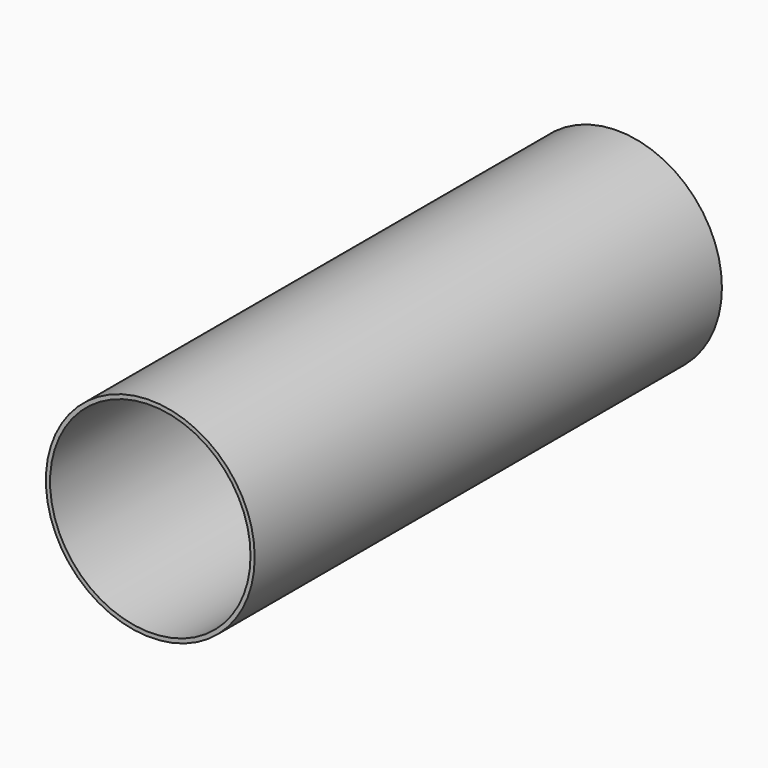
from build123d import *

# Parameters (mm, degrees)
F0_R     = 63.576496
F1_DEPTH = 355.6
F2_T     = -2.54


with BuildPart() as f1:
    # F0 (on Front) → F1 (new body)
    with BuildSketch(Plane.XZ):
        Circle(F0_R)
    extrude(amount=-F1_DEPTH)

    # F2
    f2_openings = [f1.faces().sort_by_distance(p)[0] for p in [
        (0, 0, 0),
    ]]
    offset(amount=F2_T, openings=f2_openings)


solid = f1.part
